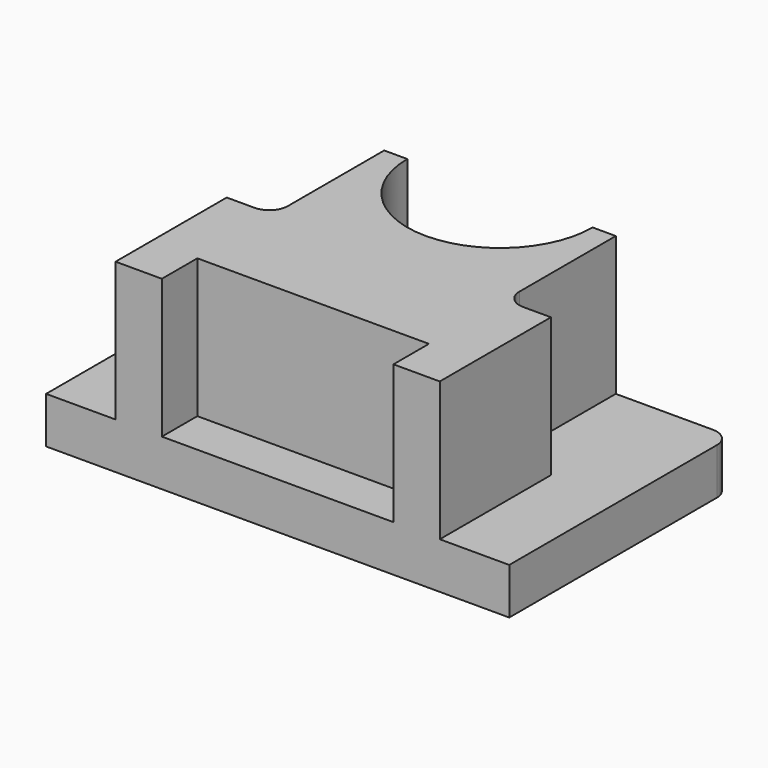
from build123d import *

# Parameters (mm, degrees)
F0_W      = 63.5
F0_H      = 38.1
F1_DEPTH  = 6.35
F2_W      = 44.45
F2_H      = 38.1
F3_DEPTH  = 19.05
F4_W      = 31.75
F4_H      = 12.158688
F5_DEPTH  = 19.05
F7_DEPTH  = 25.401
F9_W      = 6.35
F9_H      = 19.05
F10_DEPTH = 19.05
F11_W     = 6.35
F11_H     = 19.05
F12_DEPTH = 19.05
F13_R     = 2.54
F14_R     = 2.54
F15_R     = 2.54
F16_R     = 2.54


with BuildPart() as f1:
    # F0 (on Top) → F1 (new body)
    with BuildSketch(Plane.XY):
        Rectangle(F0_W, F0_H)
    extrude(amount=F1_DEPTH)

    # F2 (on face) → F3 (join)
    with BuildSketch(Plane.XY.offset(6.35)):
        Rectangle(F2_W, F2_H)
    extrude(amount=F3_DEPTH)

    # F4 (on face) → F5 (cut)
    with BuildSketch(Plane.XY.offset(25.4)):
        with Locations((0, -19.05)):
            Rectangle(F4_W, F4_H)
    extrude(amount=-F5_DEPTH, mode=Mode.SUBTRACT)

    # F6 (on face) → F7 (cut, through all)
    with BuildSketch(Plane.XY.offset(25.4)):
        with BuildLine():
            Line((-12.7, 19.05), (12.7, 19.05))
            ThreePointArc((12.7, 19.05), (0, 31.75), (-12.7, 19.05))
        make_face()
        with BuildLine():
            ThreePointArc((-12.7, 19.05), (0, 6.35), (12.7, 19.05))
            Line((12.7, 19.05), (-12.7, 19.05))
        make_face()
    extrude(amount=-F7_DEPTH, mode=Mode.SUBTRACT)

    # F9 (on face) → F10 (cut)
    with BuildSketch(Plane.XY.offset(25.4)):
        with Locations((-19.05, 9.525)):
            Rectangle(F9_W, F9_H)
    extrude(amount=-F10_DEPTH, mode=Mode.SUBTRACT)

    # F11 (on face) → F12 (cut)
    with BuildSketch(Plane.XY.offset(25.4)):
        with Locations((19.05, 9.525)):
            Rectangle(F11_W, F11_H)
    extrude(amount=-F12_DEPTH, mode=Mode.SUBTRACT)

    # F13
    f13_edges = [f1.edges().sort_by_distance(p)[0] for p in [
        (15.875, 0, 15.875),
    ]]
    fillet(f13_edges, radius=F13_R)

    # F14
    f14_edges = [f1.edges().sort_by_distance(p)[0] for p in [
        (-15.875, 0, 15.875),
    ]]
    fillet(f14_edges, radius=F14_R)

    # F15
    f15_edges = [f1.edges().sort_by_distance(p)[0] for p in [
        (-31.75, 19.05, 3.175),
    ]]
    fillet(f15_edges, radius=F15_R)

    # F16
    f16_edges = [f1.edges().sort_by_distance(p)[0] for p in [
        (31.75, 19.05, 3.175),
    ]]
    fillet(f16_edges, radius=F16_R)


solid = f1.part
